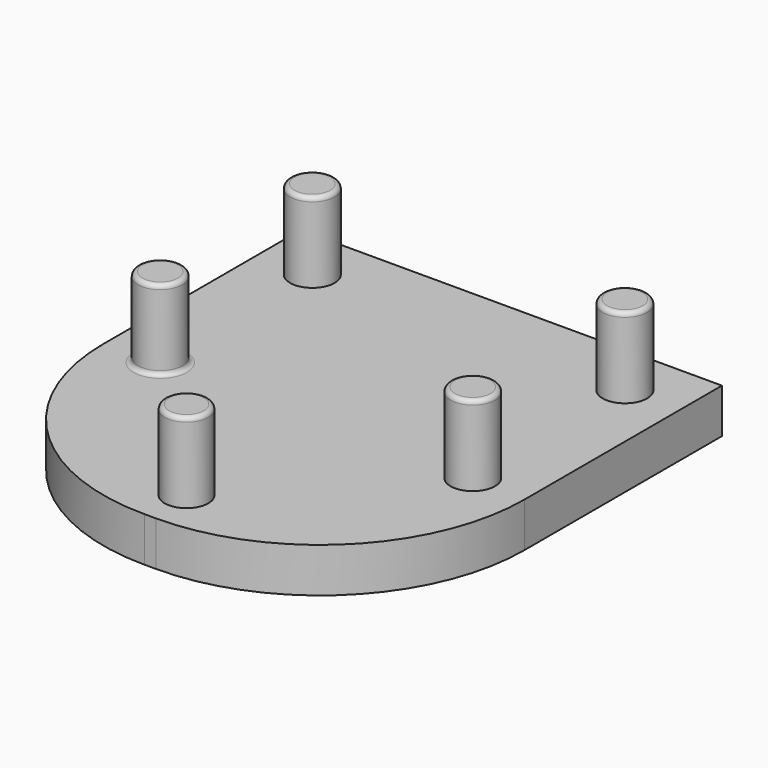
from build123d import *

# Parameters (mm, degrees)
F0_W     = 47.3
F0_H     = 50.7
F1_DEPTH = 5
F2_R     = 23
F3_R     = 2.5
F3_R_2   = 2.45
F4_DEPTH = 9
F5_R     = 0.5


with BuildPart() as f1:
    # F0 (on Top) → F1 (new body)
    with BuildSketch(Plane.XY):
        Rectangle(F0_W, F0_H)
    extrude(amount=F1_DEPTH)

    # F2
    f2_edges = [f1.edges().sort_by_distance(p)[0] for p in [
        (-23.65, -25.35, 2.5),
        (23.65, -25.35, 2.5),
    ]]
    fillet(f2_edges, radius=F2_R)

    # F3 (on face) → F4 (join)
    with BuildSketch(Plane.XY.offset(5)):
        with Locations((-17.55, 19.35)):
            Circle(F3_R)
        with Locations((17.55, 19.35)):
            Circle(F3_R)
        with Locations((17.55, -2)):
            Circle(F3_R)
        with Locations((-17.55, -2)):
            Circle(F3_R)
        with Locations((0, -20.25)):
            Circle(F3_R_2)
    extrude(amount=F4_DEPTH)

    # F5
    f5_edges = [f1.edges().sort_by_distance(p)[0] for p in [
        (-20.05, 19.35, 14),
        (15.05, 19.35, 14),
        (15.05, -2, 14),
        (-2.45, -20.25, 14),
        (-15.05, -2, 9.5),
        (-20.05, -2, 5),
        (-20.05, -2, 14),
    ]]
    fillet(f5_edges, radius=F5_R)


solid = f1.part
